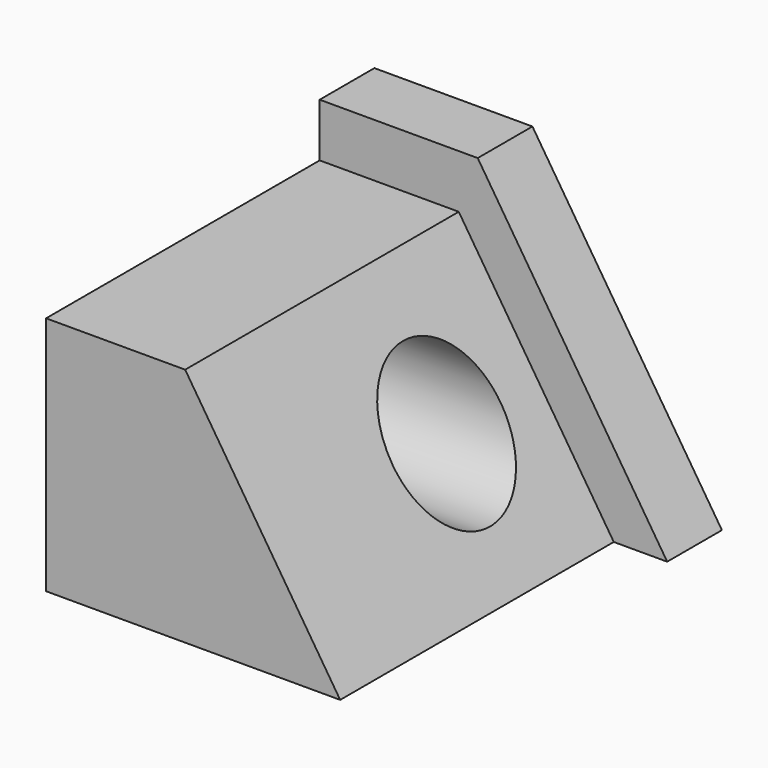
from build123d import *

# Parameters (mm, degrees)
F2_DEPTH = 76.2
F3_R     = 12.538791
F4_DEPTH = 54.609487
F6_DEPTH = 12.7


with BuildPart() as f2:
    # F0 (on Front) → F2 (new body)
    with BuildSketch(Plane.XZ):
        Polygon((-54.608487, 0), (0, 0), (-28.783787, 44.618372), (-54.608487, 44.618372), align=None)
    extrude(amount=F2_DEPTH)

    # F3 (on face) → F4 (cut, through all)
    with BuildSketch(Plane(origin=(-54.608487, 0, 0), x_dir=(0, -1, 0), z_dir=(-1, 0, 0))):
        with Locations((33.949289, 21.771144)):
            Circle(F3_R)
    extrude(amount=-F4_DEPTH, mode=Mode.SUBTRACT)

    # F5 (on Front) → F6 (join)
    with BuildSketch(Plane.XZ):
        Polygon((-54.608487, 54.538789), (-54.608487, 44.618372), (-28.783787, 44.618372), (0, 0), (9.920417, 0), (-25.263137, 54.538789), align=None)
    extrude(amount=F6_DEPTH)


solid = f2.part
